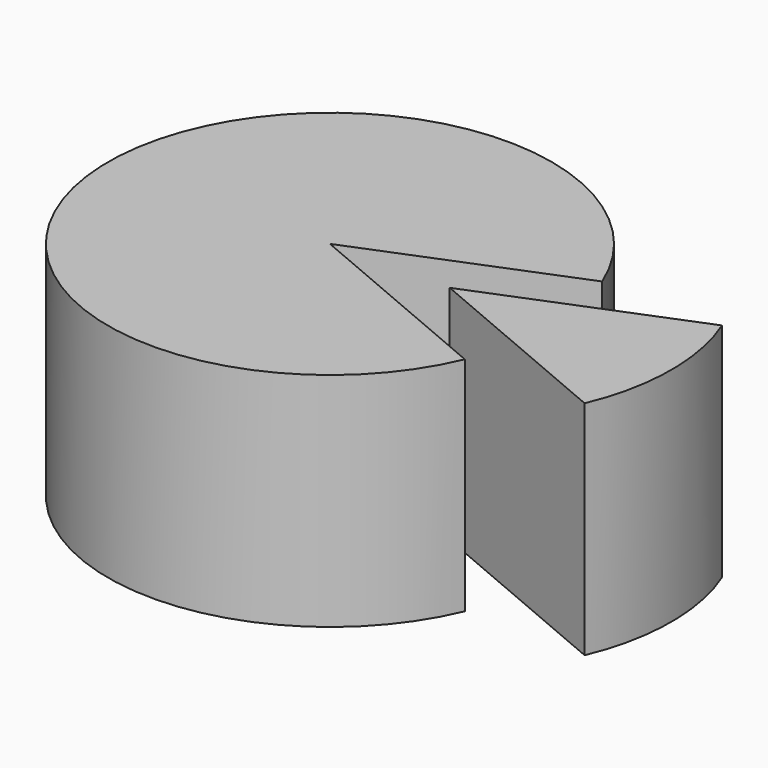
from build123d import *

# Parameters (mm, degrees)
CYLINDER_W                  = 20
CYLINDER_H                  = 20
CYLINDER_ANGLE              = 315
CYLINDER_PLACEMENT_ANGLE    = 22
CYLINDER001_W               = 20
CYLINDER001_H               = 20
CYLINDER001_ANGLE           = 45
CYLINDER001_PLACEMENT_ANGLE = 23


with BuildPart() as pastis:
    # Cylinder → Cylinder (revolve)
    with BuildSketch(Plane.XZ):
        with Locations((10, 10)):
            Rectangle(CYLINDER_W, CYLINDER_H)
    revolve(axis=Axis((0, 0, 0), (0, 0, 1)), revolution_arc=CYLINDER_ANGLE)


with BuildPart() as pastis_1:
    # Cylinder placement: moved
    add(pastis.part.rotate(Axis((0, 0, 0), (0, 0, 1)), CYLINDER_PLACEMENT_ANGLE))


with BuildPart() as obj1:
    # Cylinder001 → Cylinder001 (revolve)
    with BuildSketch(Plane.XZ):
        with Locations((10, 10)):
            Rectangle(CYLINDER001_W, CYLINDER001_H)
    revolve(axis=Axis((0, 0, 0), (0, 0, 1)), revolution_arc=CYLINDER001_ANGLE)


with BuildPart() as obj1_1:
    # Cylinder001 placement: moved
    add(obj1.part.moved(Location((10.770265, 0.037331, 0))).rotate(Axis((10.770265, 0.037331, 0), (0, 0, -1)), CYLINDER001_PLACEMENT_ANGLE))


solid = Compound([pastis_1.part, obj1_1.part])
